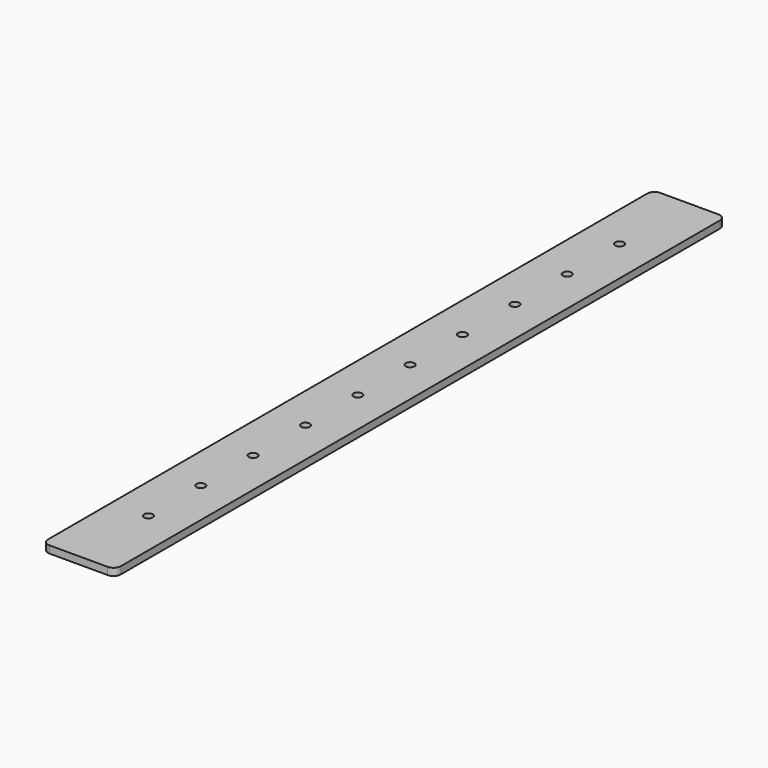
from build123d import *

# Parameters (mm, degrees)
SKETCH_W            = 50
SKETCH_H            = 525
PAD_DEPTH           = 5
SKETCH001_R         = 3
POCKET_DEPTH        = 5
LINEARPATTERN_COUNT = 10
LINEARPATTERN_PITCH = 45
FILLET_R            = 5


with BuildPart() as part:
    # Sketch → Pad (new body)
    with BuildSketch(Plane.XY):
        with Locations((-29.111652, -243.336815)):
            Rectangle(SKETCH_W, SKETCH_H)
    extrude(amount=PAD_DEPTH)

    # Sketch001 (on Face6 of Pad) → Pocket (cut)
    with BuildSketch(Plane.XY.offset(5)):
        with Locations((-29.111652, -445.836815)):
            Circle(SKETCH001_R)
    pocket = extrude(amount=-POCKET_DEPTH, mode=Mode.SUBTRACT)

    # LinearPattern: Pocket ×10
    with Locations(*[(0, i * LINEARPATTERN_PITCH, 0) for i in range(1, LINEARPATTERN_COUNT)]):
        add(pocket, mode=Mode.SUBTRACT)

    # Fillet
    fillet_edges = [part.edges().sort_by_distance(p)[0] for p in [
        (-4.111652, 19.163185, 2.5),
        (-54.111652, 19.163185, 2.5),
        (-4.111652, -505.836815, 2.5),
        (-54.111652, -505.836815, 2.5),
    ]]
    fillet(fillet_edges, radius=FILLET_R)


solid = part.part
